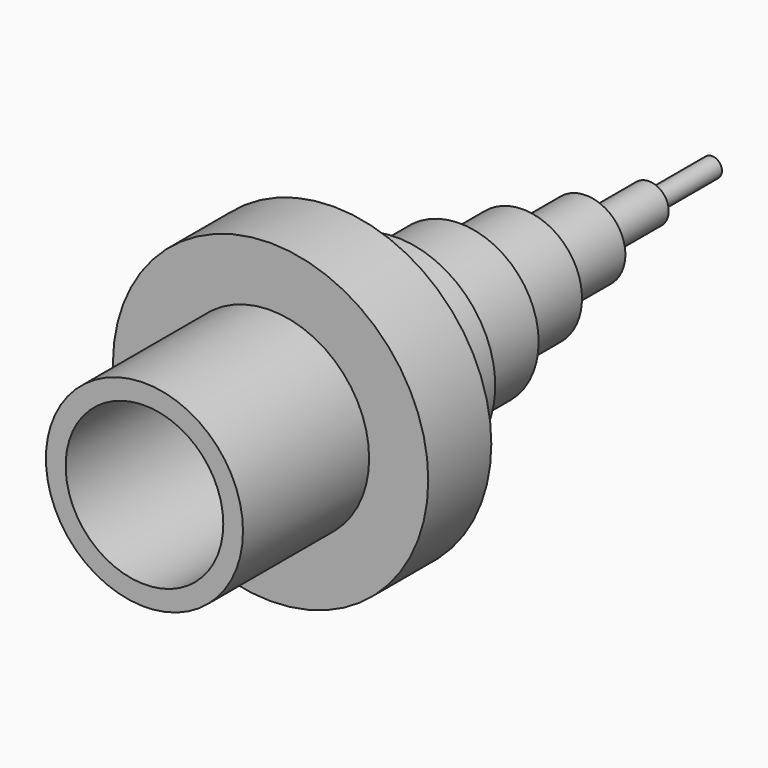
from build123d import *

# Parameters (mm, degrees)
F0_R      = 40
F1_DEPTH  = 20
F2_R      = 25
F2_R_2    = 20
F3_DEPTH  = 40
F4_R      = 25
F4_R_2    = 20
F5_DEPTH  = 20
F5_FACE_R = 20
F6_DEPTH  = 40
F7_R      = 2.5
F8_DEPTH  = 80
F9_R      = 15
F10_DEPTH = 20
F11_R     = 5
F12_DEPTH = 40
F13_R     = 10
F14_DEPTH = 20


with BuildPart() as f1:
    # F0 (on Front) → F1 (new body)
    with BuildSketch(Plane.XZ):
        Circle(F0_R)
    extrude(amount=F1_DEPTH)

    # F2 (on face) → F3 (join)
    with BuildSketch(Plane.XZ.offset(20)):
        Circle(F2_R)
        Circle(F2_R_2, mode=Mode.SUBTRACT)
    extrude(amount=F3_DEPTH)

    # F4 (on face) → F5 (join)
    with BuildSketch(Plane(origin=(0, 0, 0), x_dir=(-1, 0, 0), z_dir=(0, 1, 0))):
        Circle(F4_R)
        Circle(F4_R_2, mode=Mode.SUBTRACT)
    extrude(amount=F5_DEPTH)

    # F5_face (on face) → F6 (join)
    with BuildSketch(Plane(origin=(0, 0, 0), x_dir=(1, 0, 0), z_dir=(0, 1, 0))):
        Circle(F5_FACE_R)
    extrude(amount=F6_DEPTH)

    # F7 (on face) → F8 (join)
    with BuildSketch(Plane(origin=(0, 40, 0), x_dir=(-1, 0, 0), z_dir=(0, 1, 0))):
        Circle(F7_R)
    extrude(amount=F8_DEPTH)

    # F9 (on face) → F10 (join)
    with BuildSketch(Plane(origin=(0, 40, 0), x_dir=(-1, 0, 0), z_dir=(0, 1, 0))):
        Circle(F9_R)
    extrude(amount=F10_DEPTH)

    # F11 (on face) → F12 (join)
    with BuildSketch(Plane(origin=(0, 60, 0), x_dir=(-1, 0, 0), z_dir=(0, 1, 0))):
        Circle(F11_R)
    extrude(amount=F12_DEPTH)

    # F13 (on face) → F14 (join)
    with BuildSketch(Plane(origin=(0, 60, 0), x_dir=(-1, 0, 0), z_dir=(0, 1, 0))):
        Circle(F13_R)
    extrude(amount=F14_DEPTH)


solid = f1.part
